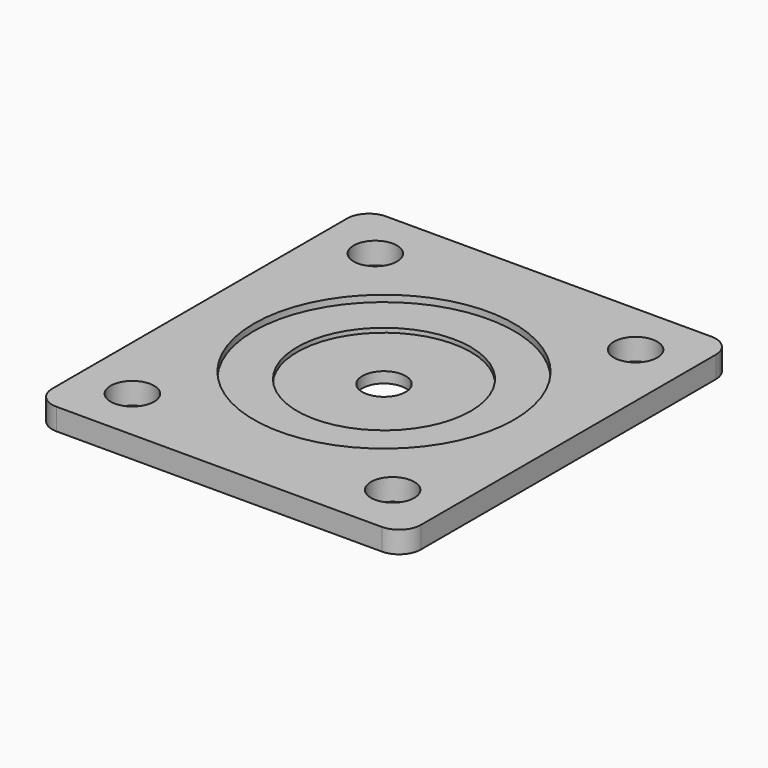
from build123d import *

# Parameters (mm, degrees)
F0_W     = 85
F0_H     = 95
F0_R     = 5
F0_R_2   = 30
F1_DEPTH = 5
F0_R_3   = 20
F2_DEPTH = 2.5
F3_DEPTH = 3.5
F4_R     = 5


with BuildPart() as f1:
    # F0 (on Top) → F1 (new body)
    with BuildSketch(Plane.XY):
        Rectangle(F0_W, F0_H)
        with Locations((-30, -35)):
            Circle(F0_R, mode=Mode.SUBTRACT)
        with Locations((30, -35)):
            Circle(F0_R, mode=Mode.SUBTRACT)
        with Locations((-30, 35)):
            Circle(F0_R, mode=Mode.SUBTRACT)
        Circle(F0_R_2, mode=Mode.SUBTRACT)
        with Locations((30, 35)):
            Circle(F0_R, mode=Mode.SUBTRACT)
    extrude(amount=F1_DEPTH)

    # F0 (on Top) → F2 (join)
    with BuildSketch(Plane.XY):
        Circle(F0_R_2)
        Circle(F0_R_3, mode=Mode.SUBTRACT)
        Circle(F0_R_3)
        Circle(F0_R, mode=Mode.SUBTRACT)
    extrude(amount=F2_DEPTH)

    # F0 (on Top) → F3 (join)
    with BuildSketch(Plane.XY):
        Circle(F0_R_2)
        Circle(F0_R_3, mode=Mode.SUBTRACT)
    extrude(amount=F3_DEPTH)

    # F4
    f4_edges = [f1.edges().sort_by_distance(p)[0] for p in [
        (-42.5, -47.5, 2.5),
        (42.5, -47.5, 2.5),
        (42.5, 47.5, 2.5),
        (-42.5, 47.5, 2.5),
    ]]
    fillet(f4_edges, radius=F4_R)


solid = f1.part
